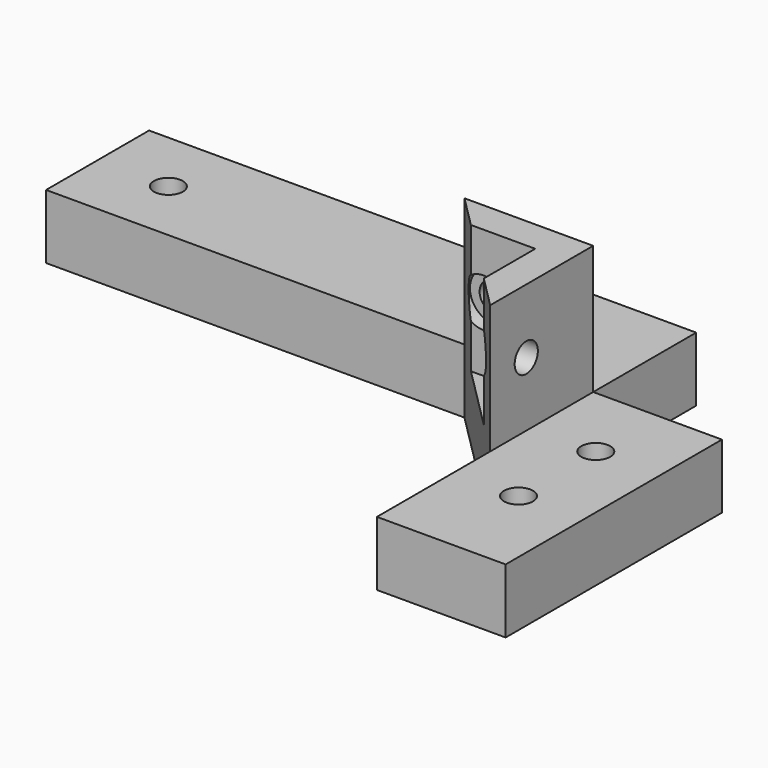
from build123d import *

# Parameters (mm, degrees)
F0_R      = 2.25
F1_DEPTH  = 10
F3_DEPTH  = 20
F4_R      = 2.25
F5_DEPTH  = 5
F6_R      = 2.25
F7_DEPTH  = 10
F8_R      = 3.75
F9_DEPTH  = 2
F10_R     = 3.75
F11_DEPTH = 2


with BuildPart() as f1:
    # F0 (on Top) → F1 (new body)
    with BuildSketch(Plane.XY):
        Polygon((-20, 20), (0, 0), (0, -22), (20, -22), (20, 20), (0, 20), (0, 40), (-85, 40), (-85, 20), align=None)
        with Locations((10, -7)):
            Circle(F0_R, mode=Mode.SUBTRACT)
        with Locations((10, 8)):
            Circle(F0_R, mode=Mode.SUBTRACT)
        with Locations((-74, 30)):
            Circle(F0_R, mode=Mode.SUBTRACT)
        with Locations((-19, 30)):
            Circle(F0_R, mode=Mode.SUBTRACT)
    extrude(amount=F1_DEPTH)

    # F2 (on face) → F3 (join)
    with BuildSketch(Plane.XY.offset(10)):
        Polygon((0, 0), (0, 20), (-20, 20), (-15, 15), (-10, 15), (-5, 15), (-5, 10), (-5, 5), align=None)
    extrude(amount=F3_DEPTH)

    # F4 (on face) → F5 (cut)
    with BuildSketch(Plane.YZ):
        with Locations((7, 20)):
            Circle(F4_R)
    extrude(amount=-F5_DEPTH, mode=Mode.SUBTRACT)

    # F6 (on face) → F7 (cut)
    with BuildSketch(Plane(origin=(0, 20, 0), x_dir=(-1, 0, 0), z_dir=(0, 1, 0))):
        with Locations((13, 20)):
            Circle(F6_R)
    extrude(amount=-F7_DEPTH, mode=Mode.SUBTRACT)

    # F8 (on face) → F9 (cut)
    with BuildSketch(Plane.XZ.offset(-15)):
        with Locations((-13, 20)):
            Circle(F8_R)
    extrude(amount=-F9_DEPTH, mode=Mode.SUBTRACT)

    # F10 (on face) → F11 (cut)
    with BuildSketch(Plane(origin=(-5, 0, 0), x_dir=(0, -1, 0), z_dir=(-1, 0, 0))):
        with Locations((-7, 20)):
            Circle(F10_R)
    extrude(amount=-F11_DEPTH, mode=Mode.SUBTRACT)


solid = f1.part
